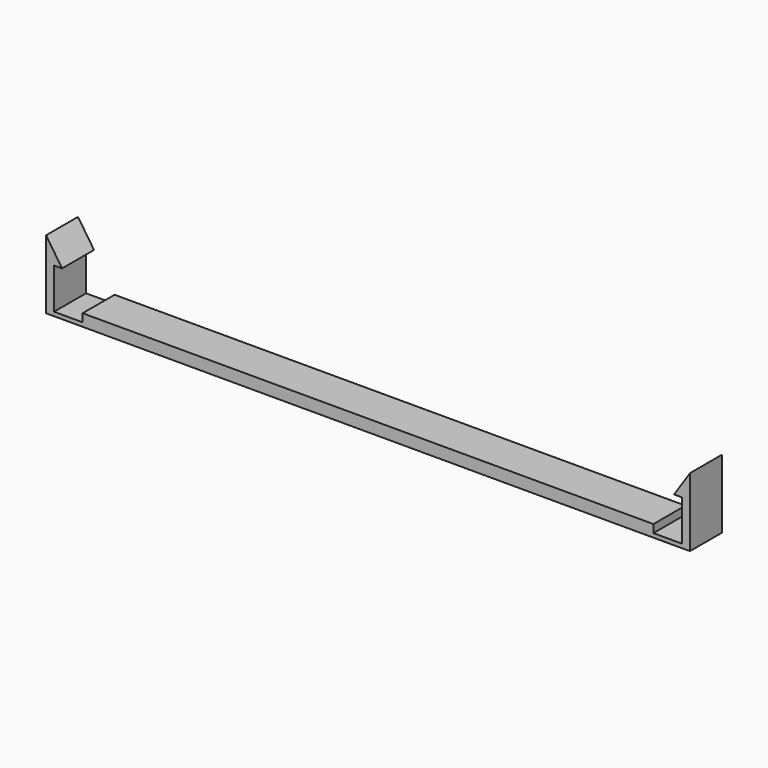
from build123d import *

# Parameters (mm, degrees)
F0_W     = 161.2
F0_H     = 10
F1_DEPTH = 1
F2_W     = 2
F2_H     = 10
F3_DEPTH = 10.2
F2_W_2   = 142.9
F4_DEPTH = 2
F6_DEPTH = 10


with BuildPart() as f1:
    # F0 (on Top) → F1 (new body)
    with BuildSketch(Plane.XY):
        Rectangle(F0_W, F0_H)
    extrude(amount=F1_DEPTH)

    # F2 (on face) → F3 (join)
    with BuildSketch(Plane.XY.offset(1)):
        with Locations((-79.6, 0)):
            Rectangle(F2_W, F2_H)
        with Locations((79.6, 0)):
            Rectangle(F2_W, F2_H)
    extrude(amount=F3_DEPTH)

    # F2 (on face) → F4 (join)
    with BuildSketch(Plane.XY.offset(1)):
        Rectangle(F2_W_2, F2_H)
    extrude(amount=F4_DEPTH)

    # F5 (on face) → F6 (join)
    with BuildSketch(Plane.XZ.offset(5)):
        Polygon((78.6, 11.2), (80.6, 11.2), (80.6, 17.199105), (76.6, 11.199105), (78.6, 11.199105), align=None)
        Polygon((-76.6, 11.2), (-80.6, 17.2), (-80.6, 11.2), (-78.6, 11.2), align=None)
    extrude(amount=-F6_DEPTH)


solid = f1.part
